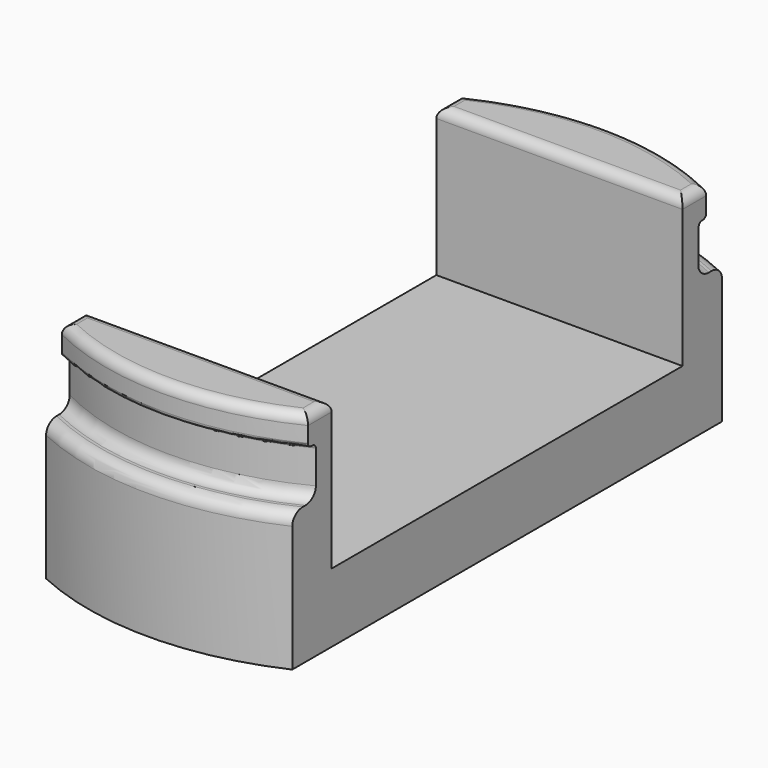
from build123d import *

# Parameters (mm, degrees)
PAD_DEPTH     = 7
PAD001_DEPTH  = 7
PAD002_DEPTH  = 5
PAD003_DEPTH  = 3
SKETCH004_R   = 10
SKETCH004_R_2 = 1.5
POCKET_DEPTH  = 4
FILLET_R      = 1
FILLET001_R   = 1.2
FILLET002_R   = 0.42
FILLET003_R   = 1


with BuildPart() as part:
    # Sketch → Pad (new body)
    with BuildSketch(Plane.XY):
        with BuildLine():
            Line((-12.5, 27.27178), (-12.5, -27.27178))
            ThreePointArc((-12.5, -27.27178), (0, -30), (12.5, -27.27178))
            Line((12.5, 27.27178), (12.5, -27.27178))
            ThreePointArc((12.5, 27.27178), (0, 30), (-12.5, 27.27178))
        make_face()
    extrude(amount=PAD_DEPTH)

    # Sketch001 (on Face6 of Pad) → Pad001 (join)
    with BuildSketch(Plane.XY.offset(7)):
        with BuildLine():
            Line((-12.5, 22.27178), (12.5, 22.27178))
            Line((12.5, 27.27178), (12.5, 22.27178))
            ThreePointArc((12.5, 27.27178), (0, 30), (-12.5, 27.27178))
            Line((-12.5, 22.27178), (-12.5, 27.27178))
        make_face()
        with BuildLine():
            Line((-12.5, -22.27178), (12.5, -22.27178))
            Line((12.5, -22.27178), (12.5, -27.27178))
            ThreePointArc((-12.5, -27.27178), (0, -30), (12.5, -27.27178))
            Line((-12.5, -22.27178), (-12.5, -27.27178))
        make_face()
    extrude(amount=PAD001_DEPTH)

    # Sketch002 (on Face12 of Pad001) → Pad002 (join)
    with BuildSketch(Plane.XY.offset(14)):
        with BuildLine():
            Line((-12.5, 22.27178), (12.5, 22.27178))
            Line((12.5, 24.27178), (12.5, 22.27178))
            ThreePointArc((12.5, 24.27178), (0, 27.301453), (-12.5, 24.27178))
            Line((-12.5, 24.27178), (-12.5, 22.27178))
        make_face()
        with BuildLine():
            Line((-12.5, -22.27178), (12.5, -22.27178))
            Line((12.5, -22.27178), (12.5, -24.27178))
            ThreePointArc((-12.5, -24.27178), (0, -27.301453), (12.5, -24.27178))
            Line((-12.5, -22.27178), (-12.5, -24.27178))
        make_face()
    extrude(amount=PAD002_DEPTH)

    # Sketch003 (on Face23 of Pad002) → Pad003 (join)
    with BuildSketch(Plane.XY.offset(19)):
        with BuildLine():
            Line((-12.5, -22.27178), (12.5, -22.27178))
            Line((12.5, -22.27178), (12.5, -25.27178))
            ThreePointArc((-12.5, -25.27178), (0, -28.194199), (12.5, -25.27178))
            Line((-12.5, -22.27178), (-12.5, -25.27178))
        make_face()
        with BuildLine():
            Line((-12.5, 22.27178), (12.5, 22.27178))
            Line((12.5, 22.27178), (12.5, 25.27178))
            ThreePointArc((12.5, 25.27178), (0, 28.194199), (-12.5, 25.27178))
            Line((-12.5, 22.27178), (-12.5, 25.27178))
        make_face()
    extrude(amount=PAD003_DEPTH)

    # Sketch004 (on Face4 of Pad003) → Pocket (cut)
    with BuildSketch(Plane(origin=(0, 0, 0), x_dir=(1, 0, 0), z_dir=(0, 0, -1))):
        Circle(SKETCH004_R)
        Circle(SKETCH004_R_2, mode=Mode.SUBTRACT)
    extrude(amount=-POCKET_DEPTH, mode=Mode.SUBTRACT)

    # Fillet
    fillet_edges = [part.edges().sort_by_distance(p)[0] for p in [
        (-1.5, 0, 0),
        (-10, 0, 0),
    ]]
    fillet(fillet_edges, radius=FILLET_R)

    # Fillet001
    fillet001_edges = [part.edges().sort_by_distance(p)[0] for p in [
        (0, 27.301453, 14),
        (0, 30, 14),
        (0, -27.301453, 14),
        (0, -30, 14),
    ]]
    fillet(fillet001_edges, radius=FILLET001_R)

    # Fillet002
    fillet002_edges = [part.edges().sort_by_distance(p)[0] for p in [
        (0, -27.301453, 19),
        (0, -28.194199, 19),
        (0, 27.301453, 19),
        (0, 28.194199, 19),
    ]]
    fillet(fillet002_edges, radius=FILLET002_R)

    # Fillet003
    fillet003_edges = [part.edges().sort_by_distance(p)[0] for p in [
        (0, -28.194199, 22),
        (12.5, -23.77178, 22),
        (0, -22.27178, 22),
        (-12.5, -23.77178, 22),
        (-12.5, 23.77178, 22),
        (0, 28.194199, 22),
        (12.5, 23.77178, 22),
        (0, 22.27178, 22),
    ]]
    fillet(fillet003_edges, radius=FILLET003_R)


solid = part.part
